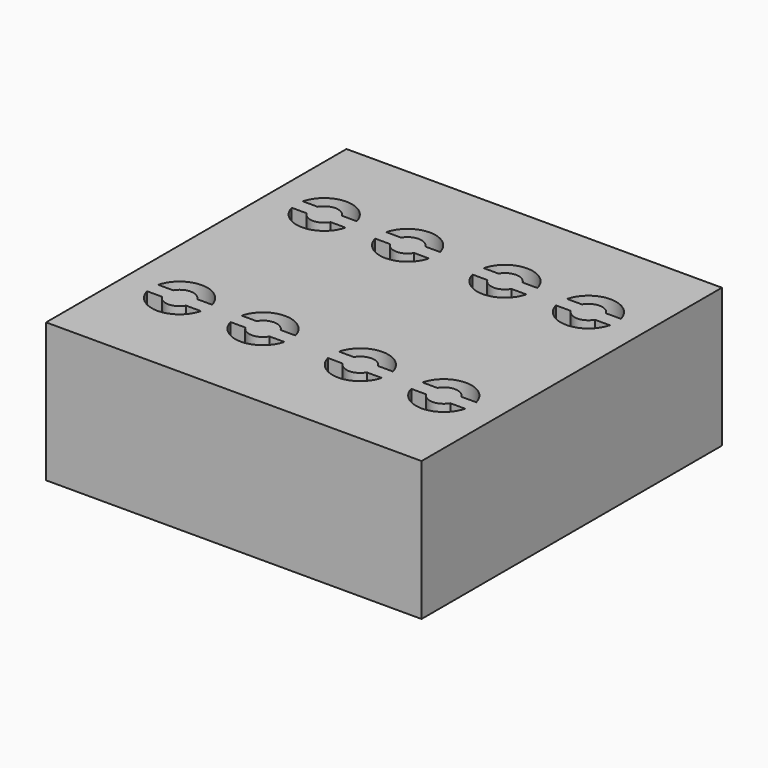
from build123d import *

# Parameters (mm, degrees)
BOX022_W          = 47
BOX022_H          = 2
BOX022_DEPTH      = 2
BOX023_W          = 47
BOX023_H          = 2
BOX023_DEPTH      = 2
CYLINDER026_R     = 2
CYLINDER026_DEPTH = 20
CYLINDER025_R     = 2
CYLINDER025_DEPTH = 20
CYLINDER027_R     = 12.5
CYLINDER027_DEPTH = 2.5
CYLINDER023_R     = 4
CYLINDER023_DEPTH = 20
CYLINDER024_R     = 4
CYLINDER024_DEPTH = 20
BOX021_W          = 54
BOX021_H          = 54
BOX021_DEPTH      = 20


with BuildPart() as cube022:
    # Box022 → Box022 (new body)
    with BuildSketch(Plane(origin=(-10, -1, 31), x_dir=(1, 0, 0), z_dir=(0, 0, 1))):
        with Locations((23.5, 1)):
            Rectangle(BOX022_W, BOX022_H)
    extrude(amount=BOX022_DEPTH)


with BuildPart() as cube023:
    # Box023 → Box023 (new body)
    with BuildSketch(Plane(origin=(-10, 25, 31), x_dir=(1, 0, 0), z_dir=(0, 0, 1))):
        with Locations((23.5, 1)):
            Rectangle(BOX023_W, BOX023_H)
    extrude(amount=BOX023_DEPTH)


with BuildPart() as zylinder026:
    # Cylinder026 → Cylinder026 (new body)
    with BuildSketch(Plane(origin=(6, 0, 13), x_dir=(1, 0, 0), z_dir=(0, 0, 1))):
        Circle(CYLINDER026_R)
    extrude(amount=CYLINDER026_DEPTH)


with BuildPart() as fusion013:
    # Cylinder025 → Cylinder025 (new body)
    with BuildSketch(Plane(origin=(-6, 0, 13), x_dir=(1, 0, 0), z_dir=(0, 0, 1))):
        Circle(CYLINDER025_R)
    extrude(amount=CYLINDER025_DEPTH)

    # Fusion013: union Zylinder026
    add(zylinder026.part)


with BuildPart() as zylinder027:
    # Cylinder027 → Cylinder027 (new body)
    with BuildSketch(Plane.XY.offset(13)):
        Circle(CYLINDER027_R)
    extrude(amount=CYLINDER027_DEPTH)


with BuildPart() as zylinder023:
    # Cylinder023 → Cylinder023 (new body)
    with BuildSketch(Plane(origin=(6, 0, 13), x_dir=(1, 0, 0), z_dir=(0, 0, 1))):
        Circle(CYLINDER023_R)
    extrude(amount=CYLINDER023_DEPTH)


with BuildPart() as fusion014:
    # Cylinder024 → Cylinder024 (new body)
    with BuildSketch(Plane(origin=(-6, 0, 13), x_dir=(1, 0, 0), z_dir=(0, 0, 1))):
        Circle(CYLINDER024_R)
    extrude(amount=CYLINDER024_DEPTH)

    # Fusion012: union Zylinder023
    add(zylinder023.part)

    # Fusion014: union Zylinder027
    add(zylinder027.part)


with BuildPart() as cut016:
    # Cut016 base: copy of Fusion014
    add(fusion014.part)

    # Cut016: cut Fusion013
    add(fusion013.part, mode=Mode.SUBTRACT)


with BuildPart() as cut017:
    # Cut017 base: copy of Fusion014
    add(fusion014.part)

    # Cut017: cut Fusion013
    add(fusion013.part, mode=Mode.SUBTRACT)


with BuildPart() as cut017_1:
    # Cut017 placement: moved
    add(cut017.part.moved(Location((26, 0, 0))))


with BuildPart() as cut015:
    # Cut015 base: copy of Fusion014
    add(fusion014.part)

    # Cut015: cut Fusion013
    add(fusion013.part, mode=Mode.SUBTRACT)


with BuildPart() as cut015_1:
    # Cut015 placement: moved
    add(cut015.part.moved(Location((26, 26, 0))))


with BuildPart() as fusion015:
    # Cut014 base: copy of Fusion014
    add(fusion014.part)

    # Cut014: cut Fusion013
    add(fusion013.part, mode=Mode.SUBTRACT)


with BuildPart() as fusion015_1:
    # Cut014 placement: moved
    add(fusion015.part.moved(Location((0, 26, 0))))

    # Fusion015: union Cut016, Cut017, Cut015
    add(cut016.part)
    add(cut017_1.part)
    add(cut015_1.part)


with BuildPart() as obj1:
    # Box021 → Box021 (new body)
    with BuildSketch(Plane(origin=(-14, -14, 13), x_dir=(1, 0, 0), z_dir=(0, 0, 1))):
        with Locations((27, 27)):
            Rectangle(BOX021_W, BOX021_H)
    extrude(amount=BOX021_DEPTH)

    # Cut018: cut Fusion015
    add(fusion015_1.part, mode=Mode.SUBTRACT)

    # Fusion016: union Cube022, Cube023
    add(cube022.part)
    add(cube023.part)


solid = obj1.part
